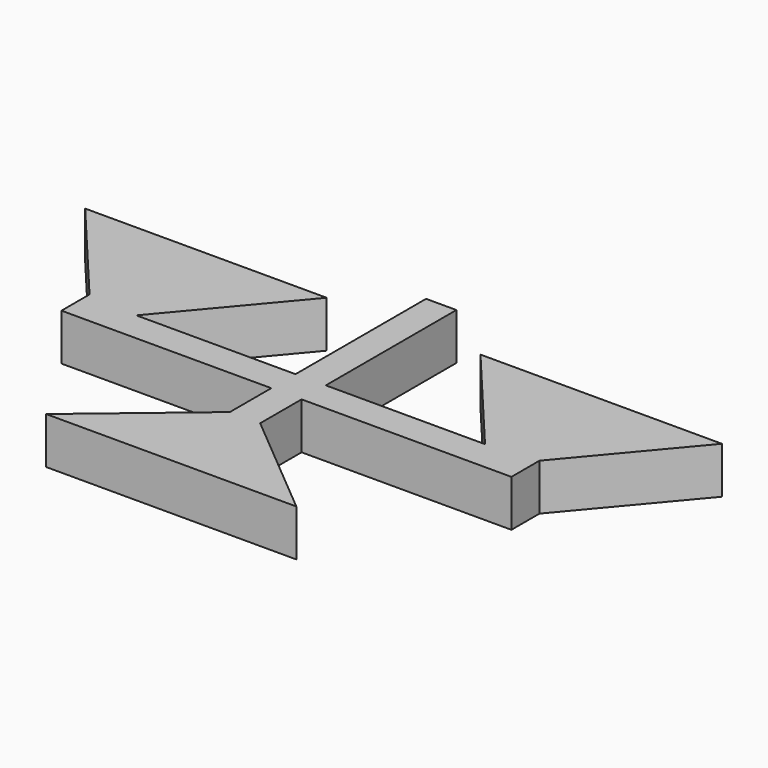
from build123d import *

# Parameters (mm, degrees)
F1_DEPTH = 2


with BuildPart() as f1:
    # F0 (on Top) → F1 (new body)
    with BuildSketch(Plane.XY):
        Polygon((-9.65, 0.054596), (-9.65, -1.45), (-0.65, -1.45), (-0.65, -3.669946), (-5.367167, -7.628119), (0, -7.628119), (5.367167, -7.628119), (0.65, -3.669946), (0.65, -1.45), (9.65, -1.45), (9.65, 0.054596), (13.656443, 4.829289), (3.299796, 4.829289), (7.477915, -0.15), (0.65, -0.15), (0.65, 6.85), (0, 6.85), (-0.65, 6.85), (-0.65, -0.15), (-7.477915, -0.15), (-3.299796, 4.829289), (-13.656443, 4.829289), align=None)
    extrude(amount=F1_DEPTH)


solid = f1.part
